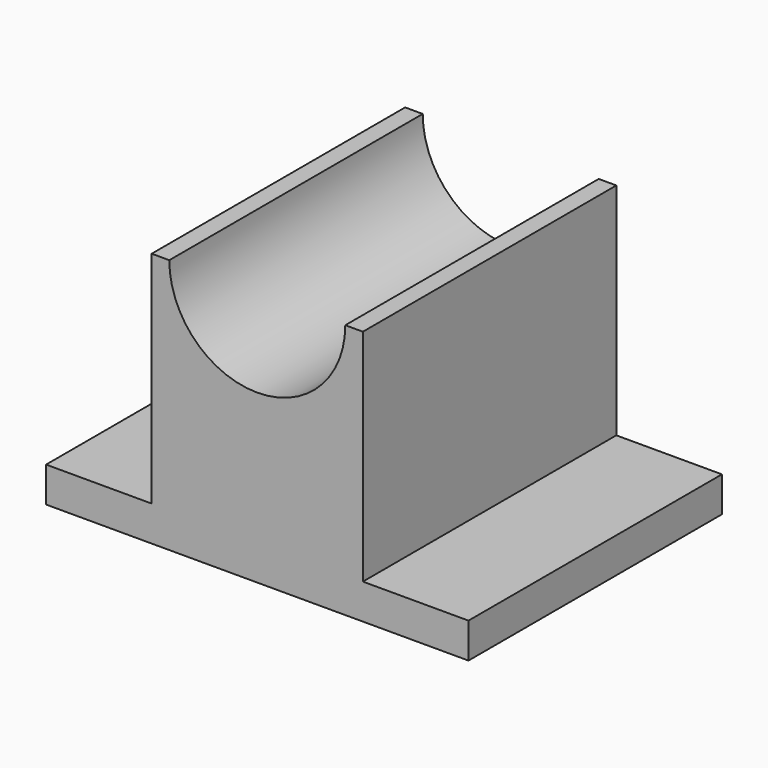
from build123d import *

# Parameters (mm, degrees)
F1_DEPTH = 114.3


with BuildPart() as f1:
    # F0 (on Front) → F1 (new body)
    with BuildSketch(Plane.XZ):
        with BuildLine():
            Line((-76.2, 0), (0, 0))
            Line((0, 0), (76.2, 0))
            Line((76.2, 0), (76.2, 12.7))
            Line((76.2, 12.7), (38.1, 12.7))
            Line((38.1, 12.7), (38.1, 92.075))
            Line((38.1, 92.075), (31.75, 92.075))
            ThreePointArc((31.75, 92.075), (0, 60.325), (-31.75, 92.075))
            Line((-31.75, 92.075), (-38.1, 92.075))
            Line((-38.1, 92.075), (-38.1, 12.7))
            Line((-38.1, 12.7), (-76.2, 12.7))
            Line((-76.2, 12.7), (-76.2, 0))
        make_face()
    extrude(amount=F1_DEPTH)


solid = f1.part
